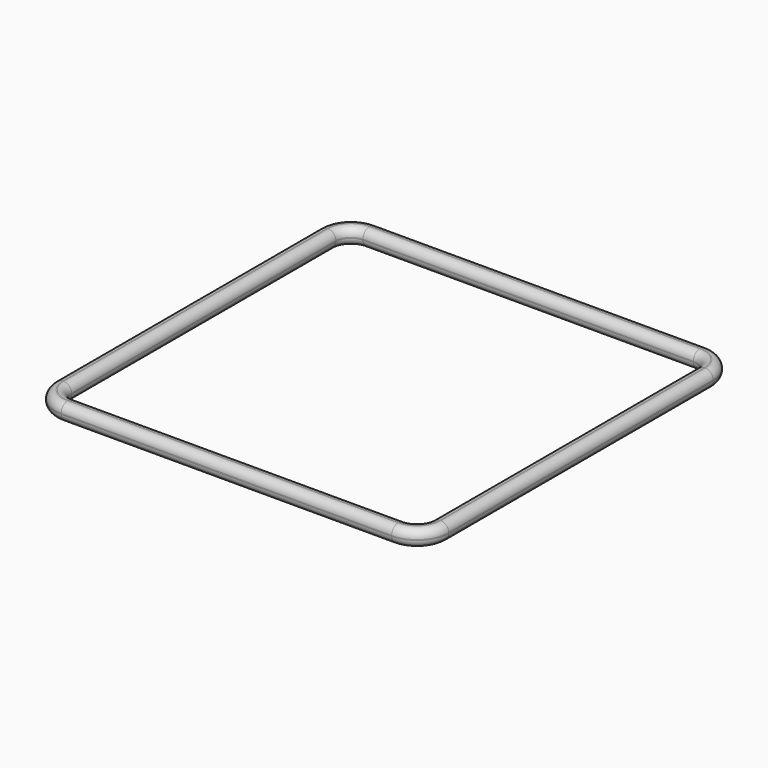
from build123d import *

# Parameters (mm, degrees)
F1_DEPTH = 3.175
F2_R     = 3


with BuildPart() as f1:
    # F0 (on Top) → F1 (new body, symmetric)
    with BuildSketch(Plane.XY):
        with BuildLine():
            Line((62.93, 75.0062), (-62.93, 75.0062))
            ThreePointArc((-62.93, 75.0062), (-71.464779, 71.470979), (-75, 62.9362))
            Line((-75, 62.9362), (-75, -62.9362))
            ThreePointArc((-75, -62.9362), (-71.464779, -71.470979), (-62.93, -75.0062))
            Line((-62.93, -75.0062), (62.93, -75.0062))
            ThreePointArc((62.93, -75.0062), (71.464779, -71.470979), (75, -62.9362))
            Line((75, -62.9362), (75, 62.9362))
            ThreePointArc((75, 62.9362), (71.464779, 71.470979), (62.93, 75.0062))
        make_face()
        with BuildLine():
            ThreePointArc((-68.65, 62.9362), (-66.974651, 66.980851), (-62.93, 68.6562))
            Line((-62.93, 68.6562), (62.93, 68.6562))
            ThreePointArc((62.93, 68.6562), (66.974651, 66.980851), (68.65, 62.9362))
            Line((68.65, 62.9362), (68.65, -62.9362))
            ThreePointArc((68.65, -62.9362), (66.974651, -66.980851), (62.93, -68.6562))
            Line((62.93, -68.6562), (-62.93, -68.6562))
            ThreePointArc((-62.93, -68.6562), (-66.974651, -66.980851), (-68.65, -62.9362))
            Line((-68.65, -62.9362), (-68.65, 62.9362))
        make_face(mode=Mode.SUBTRACT)
    extrude(amount=F1_DEPTH, both=True)

    # F2
    f2_edges = [f1.edges().sort_by_distance(p)[0] for p in [
        (0, -75.0062, 3.175),
        (-71.464779, -71.470979, 3.175),
        (-75, 0, 3.175),
        (-71.464779, 71.470979, 3.175),
        (0, 75.0062, 3.175),
        (71.464779, 71.470979, 3.175),
        (75, 0, 3.175),
        (71.464779, -71.470979, 3.175),
        (75, 0, -3.175),
        (71.464779, -71.470979, -3.175),
        (0, 68.6562, -3.175),
        (0, 68.6562, 3.175),
        (-66.974651, 66.980851, -3.175),
        (-68.65, 0, -3.175),
        (-66.974651, -66.980851, -3.175),
        (0, -68.6562, -3.175),
        (66.974651, -66.980851, -3.175),
        (68.65, 0, -3.175),
        (66.974651, 66.980851, -3.175),
    ]]
    fillet(f2_edges, radius=F2_R)


solid = f1.part
